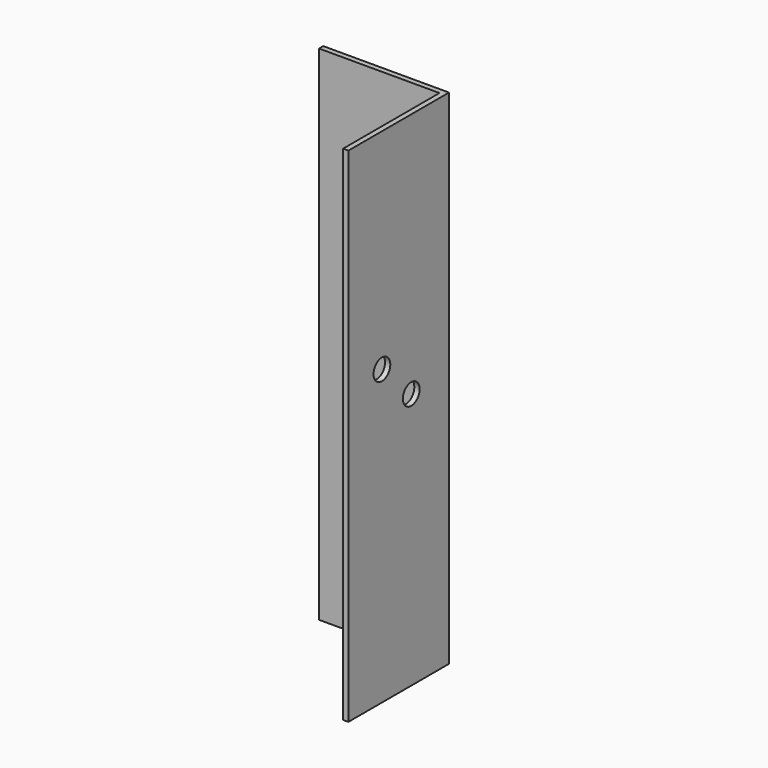
from build123d import *

# Parameters (mm, degrees)
PAD_DEPTH      = 50.8
PAD_DEPTH_BACK = 101.6
SKETCH001_R    = 3.175
POCKET_DEPTH   = 1.6002


with BuildPart() as leg1:
    # Sketch → Pad (new body, two sides)
    with BuildSketch(Plane.XY) as pad_sk:
        Polygon((0, 0), (38.1, 0), (38.1, -1.6002), (1.6002, -1.6002), (1.6002, -38.1), (0, -38.1), align=None)
    extrude(amount=PAD_DEPTH)
    extrude(pad_sk.sketch, amount=-PAD_DEPTH_BACK)

    # Sketch001 → Pocket (cut)
    with BuildSketch(Plane(origin=(0, 0, 0), x_dir=(0, -1, 0), z_dir=(-1, 0, 0))):
        with Locations((25.4, -12.7)):
            Circle(SKETCH001_R)
        with Locations((14.3002, -23.7998)):
            Circle(SKETCH001_R)
    extrude(amount=-POCKET_DEPTH, mode=Mode.SUBTRACT)


with BuildPart() as leg1_1:
    # Clone006 placement: moved
    add(leg1.part.moved(Location((-130.837, 130.837, 0))))


with BuildPart() as leg2:
    # Part__Mirroring006: instance of leg1
    add(leg1_1.part.mirror(Plane(origin=(0, 0, 0), x_dir=(1, 0, 0), z_dir=(0, 1, 0))))


with BuildPart() as leg3:
    # Part__Mirroring007: instance of leg2
    add(leg2.part.mirror(Plane(origin=(0, 0, 0), x_dir=(0, -1, 0), z_dir=(1, 0, 0))))


with BuildPart() as leg4:
    # Part__Mirroring008: instance of leg3
    add(leg3.part.mirror(Plane(origin=(0, 0, 0), x_dir=(1, 0, 0), z_dir=(0, 1, 0))))


solid = leg4.part
